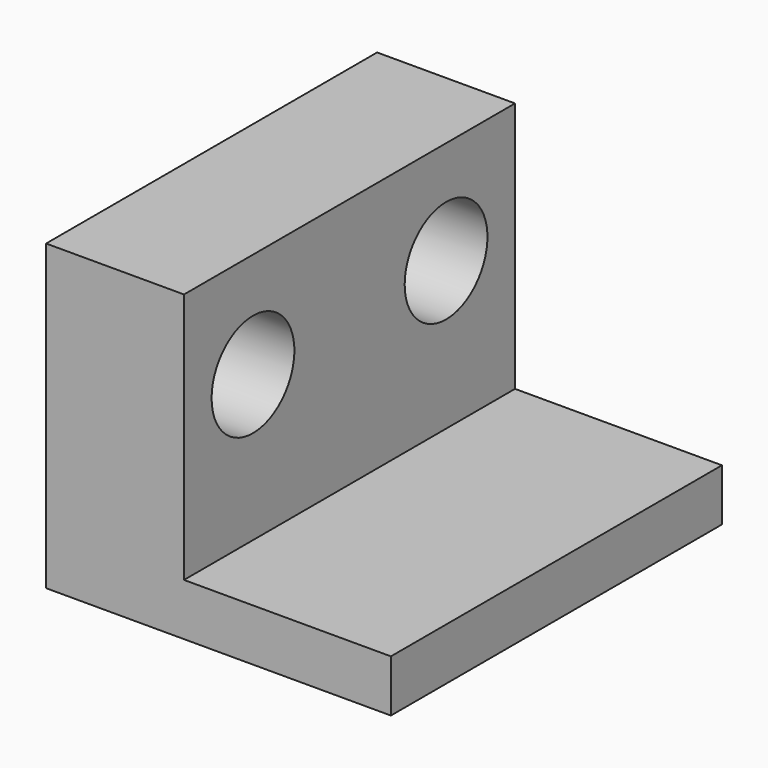
from build123d import *

# Parameters (mm, degrees)
F0_W     = 6
F0_H     = 1.511796
F1_DEPTH = 12
F2_R     = 1.5
F3_DEPTH = 25


with BuildPart() as f1:
    # F0 (on Front) → F1 (new body)
    with BuildSketch(Plane.XZ):
        with Locations((5, -3.644102)):
            Rectangle(F0_W, F0_H)
        Polygon((-2, -4.4), (2, -4.4), (2, -2.888204), (2, 4.4), (-2, 4.4), align=None)
    extrude(amount=F1_DEPTH)

    # F2 (on face) → F3 (cut)
    with BuildSketch(Plane(origin=(-2, 0, 0), x_dir=(0, -1, 0), z_dir=(-1, 0, 0))):
        with Locations((2.5, 1.4)):
            Circle(F2_R)
        with Locations((9.499757, 1.341669)):
            Circle(F2_R)
    extrude(amount=-F3_DEPTH, mode=Mode.SUBTRACT)


solid = f1.part
